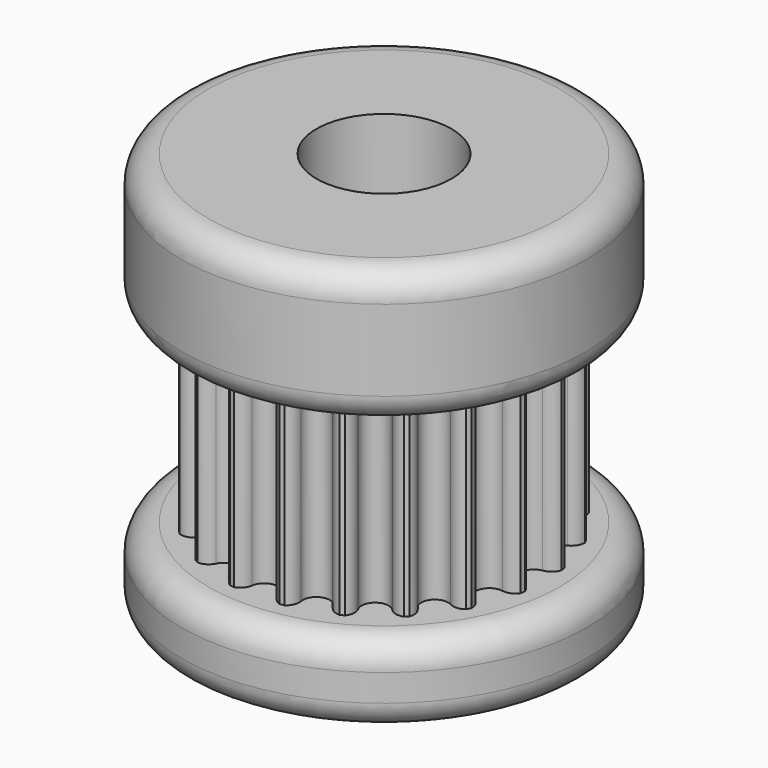
from build123d import *

# Parameters (mm, degrees)
SKETCH_R             = 5.95
PAD_DEPTH            = 3.5
POCKET_DEPTH         = 3.5
POLARPATTERN_COUNT   = 20
SKETCH002_R          = 7.5
PAD001_DEPTH         = 3
SKETCH003_R          = 7.5
PAD002_DEPTH         = 5
FILLET_R             = 1
SKETCH005_R          = 2.5
POCKET002_DEPTH      = 6.501
POCKET002_DEPTH_BACK = -8.501


with BuildPart() as part:
    # Sketch → Pad (new body, symmetric)
    with BuildSketch(Plane.XY):
        Circle(SKETCH_R)
    extrude(amount=PAD_DEPTH, both=True)

    # Sketch001 → Pocket (cut, symmetric)
    with BuildSketch(Plane.XY):
        with BuildLine():
            ThreePointArc((-0.495406, 5.477643), (-0.697454, 5.814914), (-1.080885, 5.901838))
            ThreePointArc((1.080885, 5.901838), (0, 6), (-1.080885, 5.901838))
            ThreePointArc((1.080885, 5.901838), (0.697454, 5.814914), (0.495406, 5.477643))
            ThreePointArc((-0.495406, 5.477643), (0, 5.045268), (0.495406, 5.477643))
        make_face()
    pocket = extrude(amount=POCKET_DEPTH, both=True, mode=Mode.SUBTRACT)

    # PolarPattern: Pocket ×20 about axis
    polarpattern_axis = Axis((0, 0, 0), (0, 0, 1))
    for i in range(1, POLARPATTERN_COUNT):
        add(pocket.rotate(polarpattern_axis, i * 360 / POLARPATTERN_COUNT), mode=Mode.SUBTRACT)

    # Sketch002 (on Face2 of PolarPattern) → Pad001 (join)
    with BuildSketch(Plane(origin=(0, 0, -3.5), x_dir=(1, 0, 0), z_dir=(0, 0, -1))):
        Circle(SKETCH002_R)
    extrude(amount=PAD001_DEPTH)

    # Sketch003 → Pad002 (join)
    with BuildSketch(Plane.XY.offset(3.5)):
        Circle(SKETCH003_R)
    extrude(amount=PAD002_DEPTH)

    # Fillet
    fillet_edges = [part.edges().sort_by_distance(p)[0] for p in [
        (7.5, 0, 6),
        (-7.5, 0, 3.5),
        (-7.5, 0, 8.5),
        (7.5, 0, -5),
        (-7.5, 0, -3.5),
        (-7.5, 0, -6.5),
    ]]
    fillet(fillet_edges, radius=FILLET_R)

    # Sketch005 → Pocket002 (cut, two sides)
    with BuildSketch(Plane.XY) as pocket002_sk:
        Circle(SKETCH005_R)
    extrude(amount=-POCKET002_DEPTH, mode=Mode.SUBTRACT)
    extrude(pocket002_sk.sketch, amount=-POCKET002_DEPTH_BACK, mode=Mode.SUBTRACT)


solid = part.part
